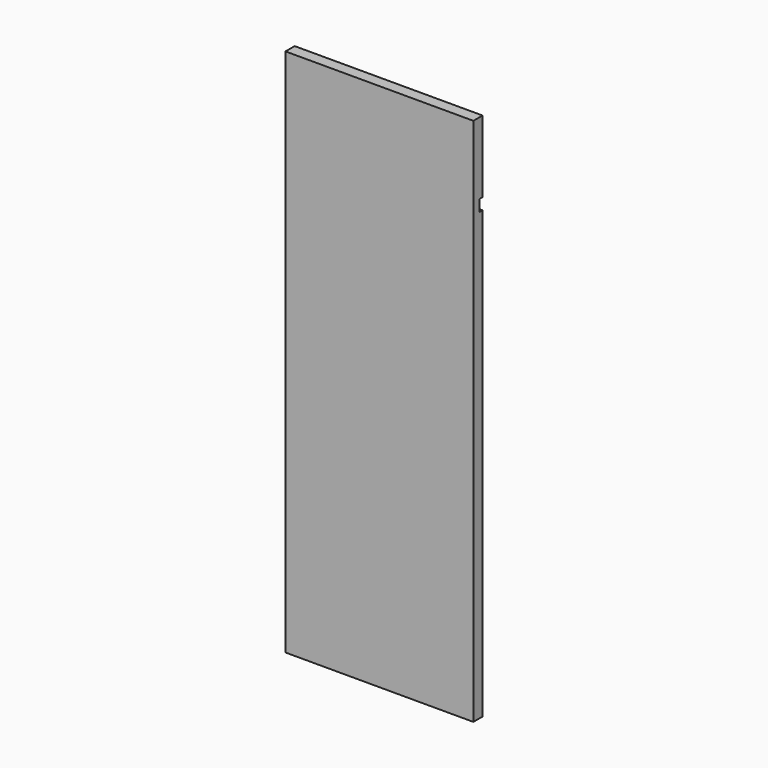
from build123d import *

# Parameters (mm, degrees)
F0_W     = 311.15
F0_H     = 438.15
F1_DEPTH = 9.525
F2_W     = 311.15
F2_H     = 19.05
F3_DEPTH = 6.35


with BuildPart() as f1:
    # F0 (on Front) → F1 (new body, symmetric)
    with BuildSketch(Plane.XZ):
        with Locations((-92.3289953259, 219.075)):
            Rectangle(F0_W, F0_H)
        with Locations((-92.3289953259, -219.075)):
            Rectangle(F0_W, F0_H)
    extrude(amount=F1_DEPTH, both=True)

    # F2 (on face) → F3 (cut)
    with BuildSketch(Plane(origin=(0, 9.525, 0), x_dir=(-1, 0, 0), z_dir=(0, 1, 0))):
        with Locations((92.3289953259, 309.5625)):
            Rectangle(F2_W, F2_H)
    extrude(amount=-F3_DEPTH, mode=Mode.SUBTRACT)


solid = f1.part
